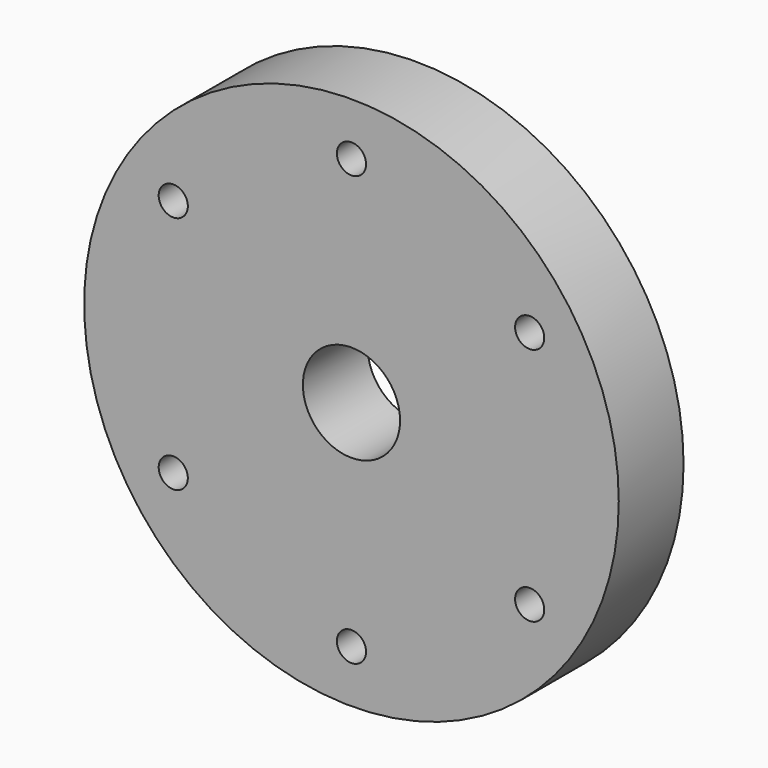
from build123d import *

# Parameters (mm, degrees)
F0_R     = 33
F0_R_2   = 6
F1_DEPTH = 10
F2_R     = 1.8
F3_DEPTH = 25


with BuildPart() as f1:
    # F0 (on Front) → F1 (new body)
    with BuildSketch(Plane.XZ):
        Circle(F0_R)
        Circle(F0_R_2, mode=Mode.SUBTRACT)
    extrude(amount=F1_DEPTH)

    # F2 (on face) → F3 (cut)
    with BuildSketch(Plane(origin=(0, 0, 0), x_dir=(-1, 0, 0), z_dir=(0, 1, 0))):
        with Locations((0, -26.5)):
            Circle(F2_R)
        with Locations((-22, 14.773287)):
            Circle(F2_R)
        with Locations((22, 14.773287)):
            Circle(F2_R)
        with Locations((22, -14.773287)):
            Circle(F2_R)
        with Locations((-22, -14.773287)):
            Circle(F2_R)
        with Locations((0, 26.5)):
            Circle(F2_R)
    extrude(amount=-F3_DEPTH, mode=Mode.SUBTRACT)


solid = f1.part
